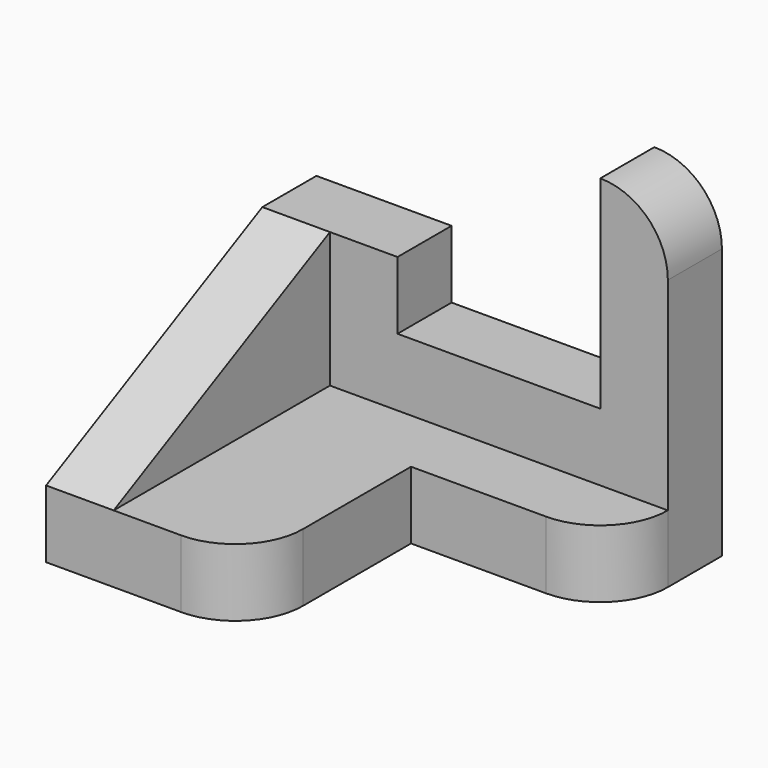
from build123d import *

# Parameters (mm, degrees)
F1_DEPTH = 10
F3_DEPTH = 10
F4_W     = 10
F4_H     = 40
F5_DEPTH = 20
F6_SIZE2 = 20
F6_SIZE  = 40


with BuildPart() as f1:
    # F0 (on Top) → F1 (new body)
    with BuildSketch(Plane.XY):
        with BuildLine():
            Line((60, 15.036973618), (0, 15.036973618))
            Line((0, 15.036973618), (0, -34.963026382))
            Line((0, -34.963026382), (20, -34.963026382))
            ThreePointArc((20, -34.963026382), (27.0710678119, -32.0340941939), (30, -24.963026382))
            Line((30, -24.963026382), (30, -4.963026382))
            Line((30, -4.963026382), (50, -4.963026382))
            ThreePointArc((50, -4.963026382), (57.0710678119, -2.0340941939), (60, 5.036973618))
            Line((60, 5.036973618), (60, 15.036973618))
        make_face()
    extrude(amount=F1_DEPTH)

    # F2 (on face) → F3 (join)
    with BuildSketch(Plane(origin=(0, 15.036973618, 0), x_dir=(-1, 0, 0), z_dir=(0, 1, 0))):
        with BuildLine():
            Line((-60, 40), (-60, 10))
            Line((-60, 10), (0, 10))
            Line((0, 10), (0, 30))
            Line((0, 30), (-20, 30))
            Line((-20, 30), (-20, 20))
            Line((-20, 20), (-50, 20))
            Line((-50, 20), (-50, 50))
            ThreePointArc((-50, 50), (-57.0710678119, 47.0710678119), (-60, 40))
        make_face()
    extrude(amount=-F3_DEPTH)

    # F4 (on face) → F5 (join)
    with BuildSketch(Plane.XY.offset(10)):
        with Locations((5, -14.963026382)):
            Rectangle(F4_W, F4_H)
    extrude(amount=F5_DEPTH)

    # F6
    f6_edges = [f1.edges().sort_by_distance(p)[0] for p in [
        (5, -34.963026, 30),
    ]]
    f6_side = f1.faces().sort_by_distance((6.666667, -6.629693, 30))[0]
    chamfer(f6_edges, length=F6_SIZE, length2=F6_SIZE2, reference=f6_side)


solid = f1.part
